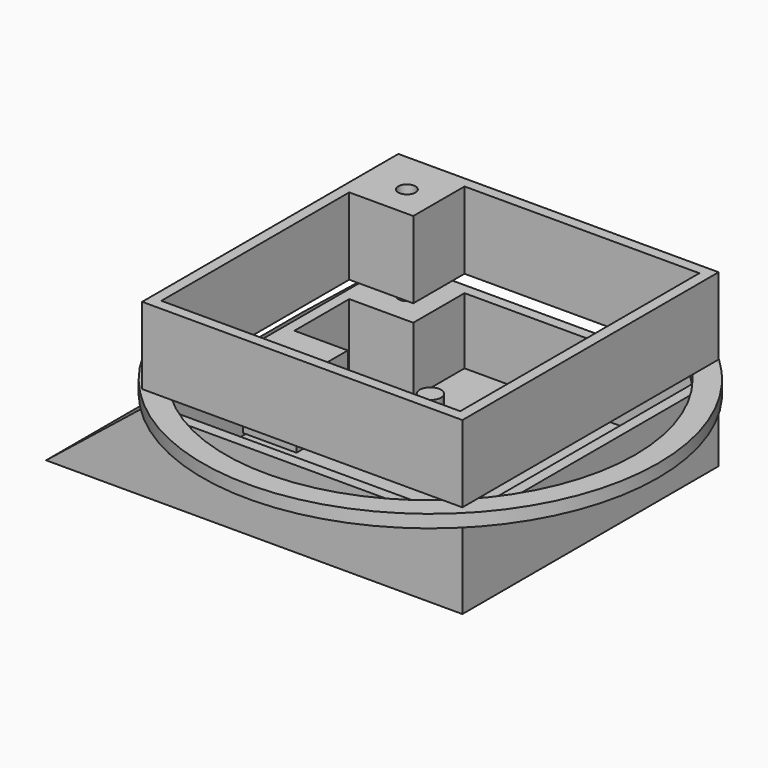
from build123d import *

# Parameters (mm, degrees)
F0_W      = 150
F0_H      = 150
F1_DEPTH  = 80
F2_T      = -5
F3_W      = 30
F3_H      = 30
F3_R      = 4
F4_DEPTH  = 75
F5_W      = 150
F5_H      = 8
F6_DEPTH  = 150
F8_W      = 30
F8_H      = 30
F8_R      = 4
F9_DEPTH  = 25
F11_DEPTH = 150
F12_R     = 5
F13_DEPTH = 31
F14_R     = 106.712960112
F14_R_2   = 95.94407307
F15_DEPTH = 6
F16_DEPTH = 1
F17_DEPTH = 2


with BuildPart() as f1:
    # F0 (on Top) → F1 (new body)
    with BuildSketch(Plane.XY):
        with Locations((-15.8231919576, 18.09606608)):
            Rectangle(F0_W, F0_H)
    extrude(amount=F1_DEPTH)

    # F2
    f2_openings = [f1.faces().sort_by_distance(p)[0] for p in [
        (-15.823192, 18.096066, 80),
    ]]
    offset(amount=F2_T, openings=f2_openings)

    # F3 (on face) → F4 (join)
    with BuildSketch(Plane.XY.offset(5)):
        with Locations((-70.8231919576, 73.09606608)):
            Rectangle(F3_W, F3_H)
        with Locations((-70.8231919576, 73.09606608)):
            Circle(F3_R, mode=Mode.SUBTRACT)
    extrude(amount=F4_DEPTH)

    # F5 (on face) → F6 (cut)
    with BuildSketch(Plane.XZ.offset(56.90393392)):
        with Locations((-15.8231919576, 40)):
            Rectangle(F5_W, F5_H)
    extrude(amount=-F6_DEPTH, mode=Mode.SUBTRACT)

    # F8 (on face) → F9 (join)
    with BuildSketch(Plane.YZ.offset(-85.8231919576)):
        with Locations((10.9866525605, 21)):
            Rectangle(F8_W, F8_H)
        with Locations((10.9866525605, 21)):
            Circle(F8_R, mode=Mode.SUBTRACT)
    extrude(amount=F9_DEPTH)

    # F10 (on face) → F11 (join)
    with BuildSketch(Plane.XZ.offset(56.90393392)):
        Polygon((-135.8231919576, 0), (-90.8231919576, 0), (-90.8231919576, 36), align=None)
    extrude(amount=-F11_DEPTH)

    # F12 (on face) → F13 (join)
    with BuildSketch(Plane.XY.offset(5)):
        with Locations((-15.8231919576, 18.09606608)):
            Circle(F12_R)
    extrude(amount=F13_DEPTH)

    # F14 (on face) → F15 (join)
    with BuildSketch(Plane.XY.offset(36)):
        with Locations((-15.8231919576, 18.09606608)):
            Circle(F14_R)
        with Locations((-15.8231919576, 18.09606608)):
            Circle(F14_R_2, mode=Mode.SUBTRACT)
    extrude(amount=F15_DEPTH)

    # F16 (add): a face of the model
    f16_faces = [f1.faces().sort_by_distance(p)[0] for p in [
        (-119.5178537602, 18.09606608, 36),
    ]]
    extrude(f16_faces, amount=-F16_DEPTH)

    # F17 (add): a face of the model
    f17_faces = [f1.faces().sort_by_distance(p)[0] for p in [
        (-119.5178537602, 18.09606608, 36),
    ]]
    extrude(f17_faces, amount=-F17_DEPTH)


solid = f1.part
